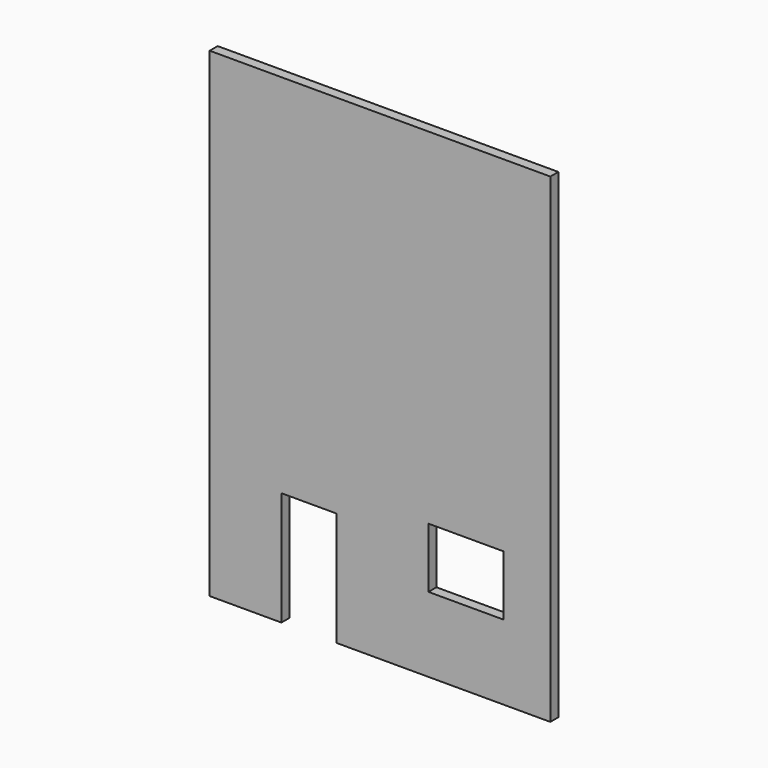
from build123d import *

# Parameters (mm, degrees)
F1_W     = 15
F1_H     = 12
F2_DEPTH = 2


with BuildPart() as f2:
    # F1 (on face) → F2 (new body)
    with BuildSketch(Plane.XZ):
        Polygon((-10.016448, -56.560398), (-10.016448, -33.817435), (0.983552, -33.817435), (0.983552, -56.560398), (43.671055, -56.560398), (43.671055, 39.29066), (-24.328945, 39.29066), (-24.328945, -56.560398), align=None)
        with Locations((26.842106, -35.620072)):
            Rectangle(F1_W, F1_H, mode=Mode.SUBTRACT)
    extrude(amount=F2_DEPTH)


solid = f2.part
